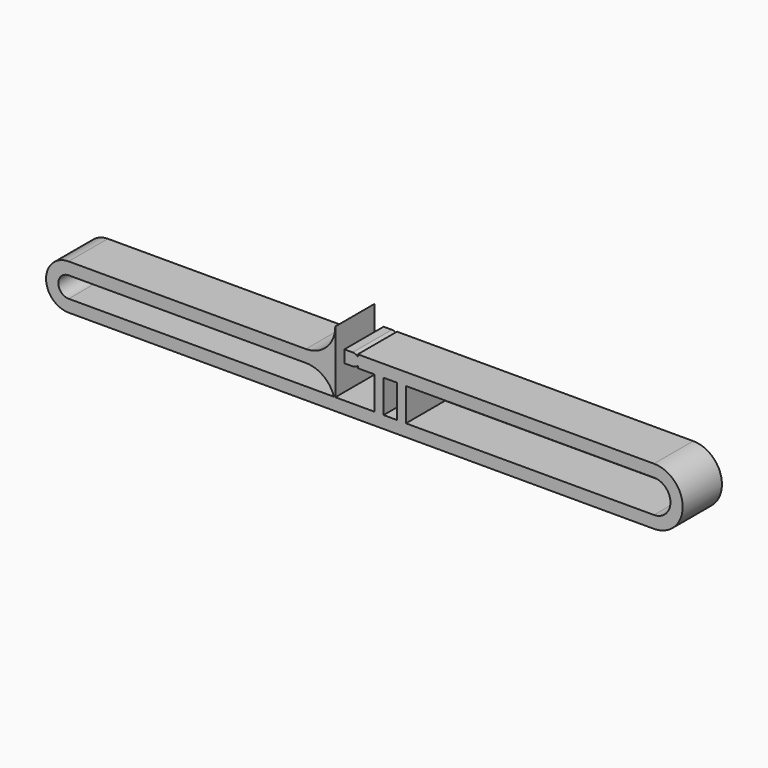
from build123d import *

# Parameters (mm, degrees)
F0_W     = 6.884935
F0_H     = 17.032009
F1_DEPTH = 25.4


with BuildPart() as f1:
    # F0 (on Front) → F1 (new body)
    with BuildSketch(Plane.XZ):
        with BuildLine():
            Line((0, -6.35), (0, 0))
            Line((0, 0), (0, 6.35))
            Line((0, 6.35), (0, 15.24))
            ThreePointArc((0, 15.24), (-4.463693, 4.463693), (-15.24, 0))
            Line((-15.24, 0), (-138.150647, 0))
            ThreePointArc((-138.150647, 0), (-149.841652, -11.691004), (-138.150647, -23.382009))
            Line((-138.150647, -23.382009), (-100.798674, -23.382009))
            Line((-100.798674, -23.382009), (0, -23.382009))
            Line((0, -23.382009), (165.1, -23.382009))
            ThreePointArc((165.1, -23.382009), (179.966004, -8.516004), (165.1, 6.35))
            Line((165.1, 6.35), (12.470275, 6.35))
            Line((12.470275, 6.35), (11.642048, 6.35))
            Line((11.642048, 6.35), (11.642048, 5.319719))
            Line((11.642048, 5.319719), (11.642048, 1.030281))
            Line((11.642048, 1.030281), (11.642048, 0))
            Line((11.642048, 0), (12.470275, 0))
            Line((12.470275, 0), (20.300698, 0))
            Line((20.300698, 0), (20.300698, -17.032009))
            Line((20.300698, -17.032009), (0, -17.032009))
            Line((0, -17.032009), (0, -6.35))
        make_face()
        with BuildLine():
            ThreePointArc((-15.24, -6.35), (-6.217977, -9.307464), (-0.697568, -17.032009))
            Line((-0.697568, -17.032009), (-100.798674, -17.032009))
            Line((-100.798674, -17.032009), (-138.150647, -17.032009))
            ThreePointArc((-138.150647, -17.032009), (-143.491652, -11.691004), (-138.150647, -6.35))
            Line((-138.150647, -6.35), (-15.24, -6.35))
        make_face(mode=Mode.SUBTRACT)
        with Locations((28.442165, -8.516004)):
            Rectangle(F0_W, F0_H, mode=Mode.SUBTRACT)
        with BuildLine():
            ThreePointArc((165.1, 0), (173.616004, -8.516004), (165.1, -17.032009))
            Line((165.1, -17.032009), (36.583633, -17.032009))
            Line((36.583633, -17.032009), (36.583633, 0))
            Line((36.583633, 0), (165.1, 0))
        make_face(mode=Mode.SUBTRACT)
        with BuildLine():
            ThreePointArc((8.959904, 0), (10.396513, 0.266429), (11.642048, 1.030281))
            Line((11.642048, 1.030281), (11.642048, 5.319719))
            ThreePointArc((11.642048, 5.319719), (10.396513, 6.083571), (8.959904, 6.35))
            Line((8.959904, 6.35), (4.699, 6.35))
            Line((4.699, 6.35), (4.699, 0))
            Line((4.699, 0), (8.959904, 0))
        make_face()
    extrude(amount=F1_DEPTH)


solid = f1.part
